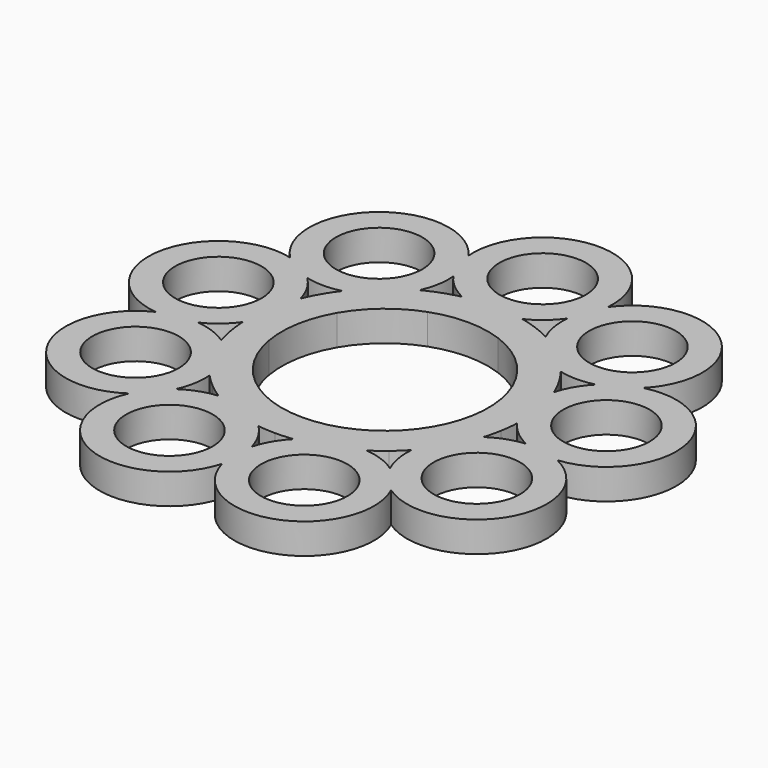
from build123d import *

# Parameters (mm, degrees)
F0_R     = 4.4
F1_DEPTH = 3.1


with BuildPart() as f1:
    # F0 (on Top) → F1 (new body)
    with BuildSketch(Plane.XY):
        with BuildLine():
            ThreePointArc((20.42269, -3.601071), (26.764785, 4.719354), (17.959412, 10.368871))
            ThreePointArc((17.959412, 10.368871), (17.469473, 20.819307), (7.092726, 19.487104))
            ThreePointArc((7.092726, 19.487104), (0, 27.177675), (-7.092726, 19.487104))
            ThreePointArc((-7.092726, 19.487104), (-17.469473, 20.819307), (-17.959412, 10.368871))
            ThreePointArc((-17.959412, 10.368871), (-26.764785, 4.719354), (-20.42269, -3.601071))
            ThreePointArc((-20.42269, -3.601071), (-23.536557, -13.588838), (-13.329964, -15.886033))
            ThreePointArc((-13.329964, -15.886033), (-9.295312, -25.538661), (0, -20.737743))
            ThreePointArc((0, -20.737743), (9.295312, -25.538661), (13.329964, -15.886033))
            ThreePointArc((13.329964, -15.886033), (23.536557, -13.588838), (20.42269, -3.601071))
        make_face()
        with Locations((-6.86151, -18.851843)):
            Circle(F0_R, mode=Mode.SUBTRACT)
        with BuildLine():
            ThreePointArc((0, -16.965943), (-0.69539, -15.299956), (-1.787641, -13.862575))
            ThreePointArc((-1.787641, -13.862575), (-0.895661, -13.948635), (0, -13.977362))
            ThreePointArc((0, -13.977362), (0.895661, -13.948635), (1.787641, -13.862575))
            ThreePointArc((1.787641, -13.862575), (0.69539, -15.299956), (0, -16.965943))
        make_face(mode=Mode.SUBTRACT)
        with Locations((-17.373952, -10.030856)):
            Circle(F0_R, mode=Mode.SUBTRACT)
        with BuildLine():
            ThreePointArc((-16.708192, -2.946105), (-15.188268, -1.971984), (-13.962392, -0.646728))
            ThreePointArc((-13.962392, -0.646728), (-13.892254, -1.540101), (-13.765014, -2.427143))
            ThreePointArc((-13.765014, -2.427143), (-13.581194, -3.304209), (-13.34155, -4.167694))
            ThreePointArc((-13.34155, -4.167694), (-14.946762, -3.341635), (-16.708192, -2.946105))
        make_face(mode=Mode.SUBTRACT)
        with BuildLine():
            ThreePointArc((-10.905498, -12.996666), (-10.367322, -11.273458), (-10.280104, -9.470275))
            ThreePointArc((-10.280104, -9.470275), (-9.652127, -10.109555), (-8.984475, -10.70728))
            ThreePointArc((-8.984475, -10.70728), (-8.279894, -11.260995), (-7.541278, -11.768422))
            ThreePointArc((-7.541278, -11.768422), (-9.301923, -12.167434), (-10.905498, -12.996666))
        make_face(mode=Mode.SUBTRACT)
        with BuildLine():
            ThreePointArc((-3.595662, 9.878999), (0, 10.513011), (3.595662, 9.878999))
            ThreePointArc((3.595662, 9.878999), (6.757633, 8.053434), (9.104535, 5.256506))
            ThreePointArc((9.104535, 5.256506), (10.353295, 1.825565), (10.353295, -1.825565))
            ThreePointArc((10.353295, -1.825565), (9.104535, -5.256506), (6.757633, -8.053434))
            ThreePointArc((6.757633, -8.053434), (3.595662, -9.878999), (0, -10.513011))
            ThreePointArc((0, -10.513011), (-3.595662, -9.878999), (-6.757633, -8.053434))
            ThreePointArc((-6.757633, -8.053434), (-9.104535, -5.256506), (-10.353295, -1.825565))
            ThreePointArc((-10.353295, -1.825565), (-10.353295, 1.825565), (-9.104535, 5.256506))
            ThreePointArc((-9.104535, 5.256506), (-6.757633, 8.053434), (-3.595662, 9.878999))
        make_face(mode=Mode.SUBTRACT)
        with Locations((6.86151, -18.851843)):
            Circle(F0_R, mode=Mode.SUBTRACT)
        with BuildLine():
            ThreePointArc((10.905498, -12.996666), (9.301923, -12.167434), (7.541278, -11.768422))
            ThreePointArc((7.541278, -11.768422), (8.279894, -11.260995), (8.984475, -10.70728))
            ThreePointArc((8.984475, -10.70728), (9.652127, -10.109555), (10.280104, -9.470275))
            ThreePointArc((10.280104, -9.470275), (10.367322, -11.273458), (10.905498, -12.996666))
        make_face(mode=Mode.SUBTRACT)
        with Locations((17.373952, -10.030856)):
            Circle(F0_R, mode=Mode.SUBTRACT)
        with BuildLine():
            ThreePointArc((16.708192, -2.946105), (14.946762, -3.341635), (13.34155, -4.167694))
            ThreePointArc((13.34155, -4.167694), (13.581194, -3.304209), (13.765014, -2.427143))
            ThreePointArc((13.765014, -2.427143), (13.892254, -1.540101), (13.962392, -0.646728))
            ThreePointArc((13.962392, -0.646728), (15.188268, -1.971984), (16.708192, -2.946105))
        make_face(mode=Mode.SUBTRACT)
        with Locations((-19.756929, 3.48368)):
            Circle(F0_R, mode=Mode.SUBTRACT)
        with BuildLine():
            ThreePointArc((-14.692937, 8.482971), (-12.902456, 8.252203), (-11.111521, 8.47943))
            ThreePointArc((-11.111521, 8.47943), (-11.632042, 7.749983), (-12.10475, 6.988681))
            ThreePointArc((-12.10475, 6.988681), (-12.527703, 6.198652), (-12.899163, 5.383144))
            ThreePointArc((-12.899163, 5.383144), (-13.597845, 7.047753), (-14.692937, 8.482971))
        make_face(mode=Mode.SUBTRACT)
        with Locations((-12.89542, 15.368163)):
            Circle(F0_R, mode=Mode.SUBTRACT)
        with BuildLine():
            ThreePointArc((-5.802694, 15.942771), (-4.57944, 14.615093), (-3.061446, 13.637969))
            ThreePointArc((-3.061446, 13.637969), (-3.929068, 13.413764), (-4.780539, 13.134424))
            ThreePointArc((-4.780539, 13.134424), (-5.612361, 12.801095), (-6.421113, 12.41515))
            ThreePointArc((-6.421113, 12.41515), (-5.886346, 14.139418), (-5.802694, 15.942771))
        make_face(mode=Mode.SUBTRACT)
        with Locations((0, 20.061712)):
            Circle(F0_R, mode=Mode.SUBTRACT)
        with BuildLine():
            ThreePointArc((14.692937, 8.482971), (13.597845, 7.047753), (12.899163, 5.383144))
            ThreePointArc((12.899163, 5.383144), (12.527703, 6.198652), (12.10475, 6.988681))
            ThreePointArc((12.10475, 6.988681), (11.632042, 7.749983), (11.111521, 8.47943))
            ThreePointArc((11.111521, 8.47943), (12.902456, 8.252203), (14.692937, 8.482971))
        make_face(mode=Mode.SUBTRACT)
        with Locations((19.756929, 3.48368)):
            Circle(F0_R, mode=Mode.SUBTRACT)
        with BuildLine():
            ThreePointArc((4.780539, 13.134424), (3.929068, 13.413764), (3.061446, 13.637969))
            ThreePointArc((3.061446, 13.637969), (4.57944, 14.615093), (5.802694, 15.942771))
            ThreePointArc((5.802694, 15.942771), (5.886346, 14.139418), (6.421113, 12.41515))
            ThreePointArc((6.421113, 12.41515), (5.612361, 12.801095), (4.780539, 13.134424))
        make_face(mode=Mode.SUBTRACT)
        with Locations((12.89542, 15.368163)):
            Circle(F0_R, mode=Mode.SUBTRACT)
    extrude(amount=F1_DEPTH)


solid = f1.part
